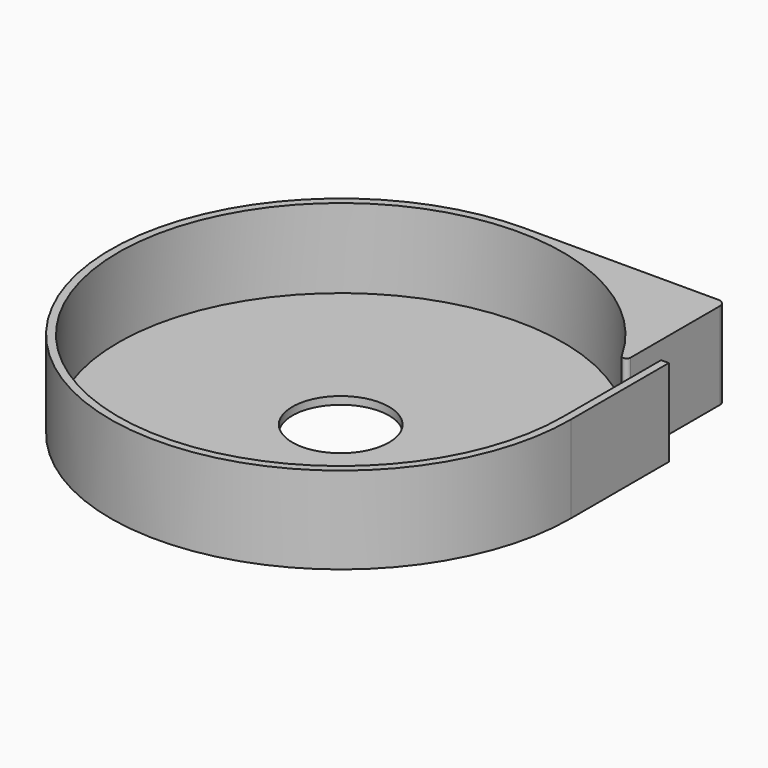
from build123d import *

# Parameters (mm, degrees)
SKETCH001_R  = 5
PAD_DEPTH    = 0.8
PAD001_DEPTH = 8.2


with BuildPart() as part:
    # Sketch001 → Pad (new body)
    with BuildSketch(Plane.XY):
        with BuildLine():
            ThreePointArc((0, 23.8), (-16.829141, -16.829141), (23.8, 0))
            Line((23.8, 12.662984), (23.8, 0))
            Line((20.8, 12.662984), (23.8, 12.662984))
            Line((20.8, 23), (20.8, 12.662984))
            ThreePointArc((20.8, 23), (20.565685, 23.565685), (20, 23.8))
            Line((0, 23.8), (20, 23.8))
        make_face()
        Circle(SKETCH001_R, mode=Mode.SUBTRACT)
    extrude(amount=PAD_DEPTH)

    # Sketch002 → Pad001 (join)
    with BuildSketch(Plane.XY.offset(0.8)):
        with BuildLine():
            ThreePointArc((0, 23.8), (-16.829141, -16.829141), (23.8, 0))
            Line((23.8, 0), (23.8, 12.662984))
            Line((23, 12.662984), (23.8, 12.662984))
            Line((23, 12.662984), (23, 0))
            ThreePointArc((20.051282, 11.267035), (-22.250612, -5.823251), (23, 0))
            ThreePointArc((20.051282, 11.267035), (20.501274, 11.076017), (20.8, 11.462984))
            Line((20.8, 23), (20.8, 11.462984))
            ThreePointArc((20.8, 23), (20.565685, 23.565685), (20, 23.8))
            Line((0, 23.8), (20, 23.8))
        make_face()
    extrude(amount=PAD001_DEPTH)


solid = part.part
